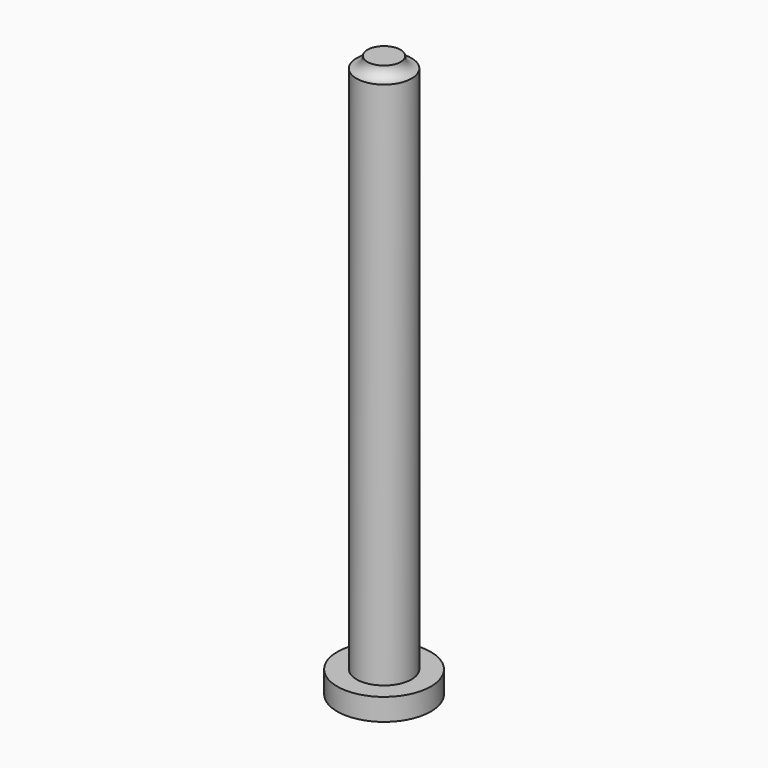
from build123d import *

# Parameters (mm, degrees)
F0_R     = 8.5
F1_DEPTH = 4
F2_R     = 5
F3_DEPTH = 100


with BuildPart() as f1:
    # F0 (on Top) → F1 (new body)
    with BuildSketch(Plane.XY):
        Circle(F0_R)
    extrude(amount=F1_DEPTH)

    # F2 (on Top) → F3 (join)
    with BuildSketch(Plane.XY):
        Circle(F2_R)
    extrude(amount=F3_DEPTH)

    # F4 (on Right) → F5 (revolve)
    with BuildSketch(Plane.YZ):
        with BuildLine():
            Line((0, 102), (0, 100))
            Line((0, 100), (5, 100))
            ThreePointArc((5, 100), (3.585786, 100.585786), (3, 102))
            Line((3, 102), (0, 102))
        make_face()
    revolve(axis=Axis((0, 0, 101), (0, 0, 1)))


solid = f1.part
